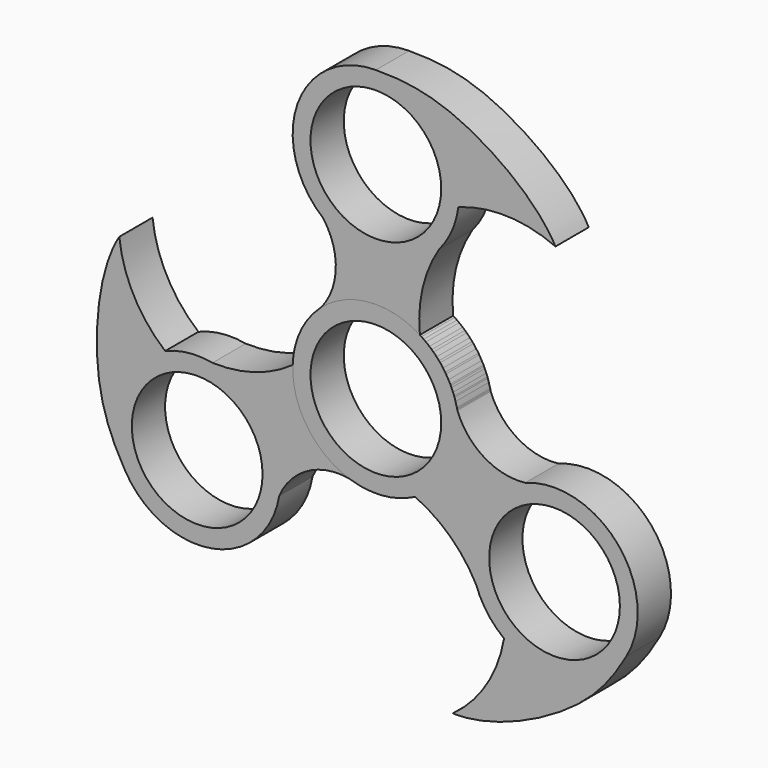
from build123d import *

# Parameters (mm, degrees)
F0_R     = 11
F1_DEPTH = 7
F2_COUNT = 3


with BuildPart() as f1:
    # F0 (on Front) → F1 (new body)
    with BuildSketch(Plane.XZ):
        with BuildLine():
            ThreePointArc((-8.886839737, 23.9036262943), (1.2211298331, 20.7747504622), (10.6315544504, 25.6126034288))
            ThreePointArc((10.6315544504, 25.6126034288), (12.7917389112, 29.0318047851), (13.8843786971, 32.9258352316))
            ThreePointArc((13.8843786971, 32.9258352316), (13.9710647726, 33.8217548106), (14, 34.7213931382))
            ThreePointArc((14, 34.7213931382), (9.8994949366, 44.6208880748), (0, 48.7213931382))
            ThreePointArc((0, 48.7213931382), (-13.1804540099, 39.4410999186), (-8.886839737, 23.9036262943))
        make_face()
        with Locations((0, 34.7213931382)):
            Circle(F0_R, mode=Mode.SUBTRACT)
        with BuildLine():
            ThreePointArc((-9.2415637656, 10.5163443823), (-1.1437562824, 13.9532011226), (7.4056392701, 11.8809303929))
            ThreePointArc((7.4056392701, 11.8809303929), (7.8755725752, 19.0152920486), (10.6315544504, 25.6126034288))
            ThreePointArc((10.6315544504, 25.6126034288), (1.2211298331, 20.7747504622), (-8.886839737, 23.9036262943))
            ThreePointArc((-8.886839737, 23.9036262943), (-6.7393492199, 17.1483835089), (-9.2415637656, 10.5163443823))
        make_face()
        with BuildLine():
            ThreePointArc((-9.2415637656, 10.5163443823), (-5.7713996258, -12.7550361175), (14, 0))
            ThreePointArc((14, 0), (12.2408935495, 6.7941537449), (7.4056392701, 11.8809303929))
            ThreePointArc((7.4056392701, 11.8809303929), (-1.1437562824, 13.9532011226), (-9.2415637656, 10.5163443823))
        make_face()
        Circle(F0_R, mode=Mode.SUBTRACT)
        with BuildLine():
            ThreePointArc((14, 34.7213931382), (13.9710647726, 33.8217548106), (13.8843786971, 32.9258352316))
            ThreePointArc((13.8843786971, 32.9258352316), (22.1083523264, 34.2598284507), (30.2307102829, 32.4049480259))
            add(Edge.make_bspline(
                [(0, 48.7213931382), (5.6149945187, 48.8018079927), (15.3103612393, 46.8101871255), (27.4815675373, 37.5216125838), (30.2307102829, 32.4049480259)],
                knots=[0, 0, 0, 0, 0.4713476629, 1, 1, 1, 1], degree=3))
            ThreePointArc((0, 48.7213931382), (9.8994949366, 44.6208880748), (14, 34.7213931382))
        make_face()
    extrude(amount=F1_DEPTH)


with BuildPart() as f2_1:
    # F2: instance of F1
    add(f1.part.rotate(Axis((0, -7, 0), (0, -1, 0)), 1 * 360 / F2_COUNT))


with BuildPart() as f2_2:
    # F2: instance of F1
    add(f1.part.rotate(Axis((0, -7, 0), (0, -1, 0)), 2 * 360 / F2_COUNT))


solid = Compound([f1.part, f2_1.part, f2_2.part])
